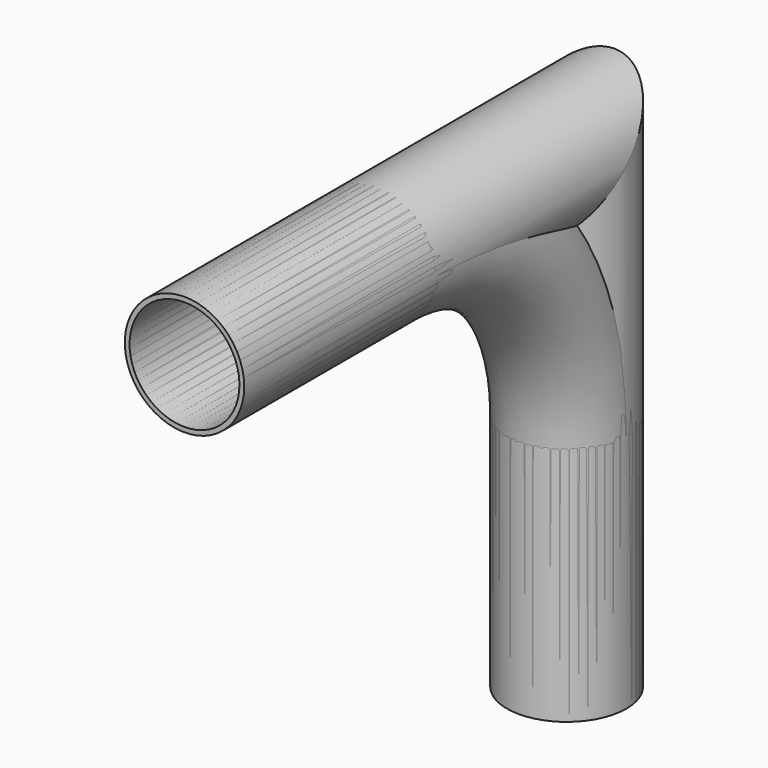
from build123d import *

# Parameters (mm, degrees)
F0_R   = 25
F0_R_2 = 23


with BuildPart() as f2:
    # F2: sweep along a path in F1
    with BuildLine(Plane.YZ) as f2_path:
        Line((0, 0), (0, 100))
        ThreePointArc((0, 100), (-29.2893218813, 170.7106781187), (-100, 200))
        Line((-100, 200), (-200, 200))
    # F0 (on Top) → F2 (sweep)
    with BuildSketch(Plane.XY):
        Circle(F0_R)
        Circle(F0_R_2, mode=Mode.SUBTRACT)
    sweep(path=f2_path.line)


with BuildPart() as f4:
    # F4: sweep along a path in F3
    with BuildLine(Plane.YZ) as f4_path:
        Line((0, 0), (0, 200))
        Line((0, 200), (-200, 200))
    # F0 (on Top) → F4 (sweep)
    with BuildSketch(Plane.XY):
        Circle(F0_R)
        Circle(F0_R_2, mode=Mode.SUBTRACT)
    sweep(path=f4_path.line, transition=Transition.RIGHT)


solid = Compound([f2.part, f4.part])
